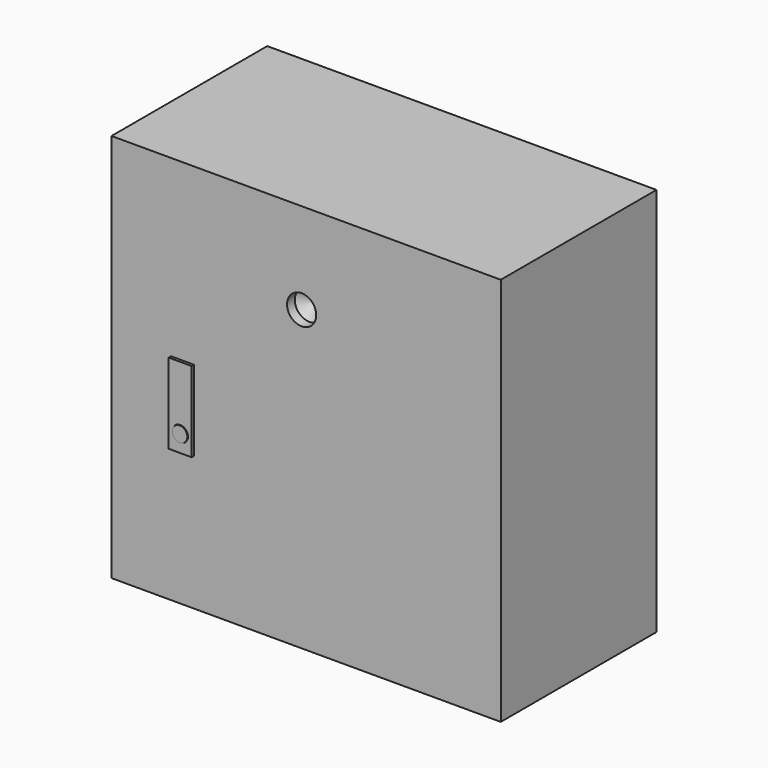
from build123d import *

# Parameters (mm, degrees)
F0_W     = 400
F0_H     = 400
F1_DEPTH = 200
F2_W     = 23.6235832693
F2_H     = 82.5
F2_R     = 8.0037412027
F3_DEPTH = 3
F2_R_2   = 7.7471341156
F4_DEPTH = 3.5
F6_D     = 30
F6_DEPTH = 10
F6_TIP   = 9.0129092854


with BuildPart() as f1:
    # F0 (on Front) → F1 (new body)
    with BuildSketch(Plane.XZ):
        with Locations((138.8336762786, 156.3295841217)):
            Rectangle(F0_W, F0_H)
    extrude(amount=F1_DEPTH)

    # F2 (on face) → F3 (join)
    with BuildSketch(Plane.XZ.offset(200)):
        with Locations((11.8117916346, 135.6753641114)):
            Rectangle(F2_W, F2_H)
        with Locations((11.8117916346, 111.8402481079)):
            Circle(F2_R, mode=Mode.SUBTRACT)
    extrude(amount=F3_DEPTH)

    # F2 (on face) → F4 (join)
    with BuildSketch(Plane.XZ.offset(200)):
        with Locations((11.8117916346, 111.8402481079)):
            Circle(F2_R_2)
    extrude(amount=F4_DEPTH)

    # F6
    with Locations(Plane.XZ.offset(200)):
        with Locations((134.1965198517, 262.6275718212)):
            Hole(F6_D / 2, depth=F6_DEPTH)
            with Locations((0, 0, -(F6_DEPTH + F6_TIP / 2))):  # 118° drill point
                Cone(0, F6_D / 2, F6_TIP, mode=Mode.SUBTRACT)


solid = f1.part
